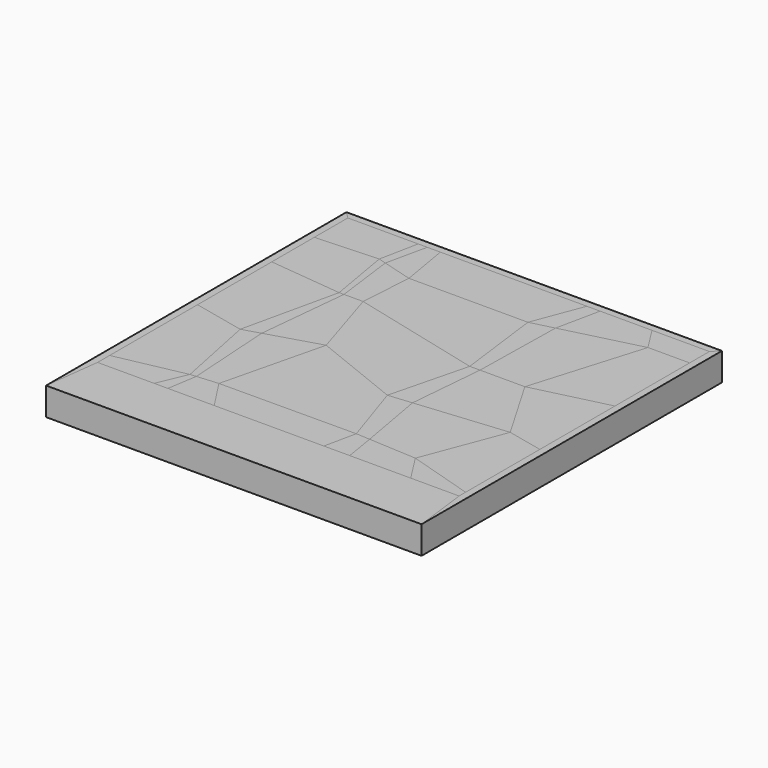
from build123d import *

# Parameters (mm, degrees)
F1_DEPTH = 25.4
F2_DEPTH = 25.4
F3_DEPTH = 25.4
F4_DEPTH = 25.4
F5_DEPTH = 25.4
F6_DEPTH = 25.4
F7_DEPTH = 25.4


with BuildPart() as f1:
    # F0 (on Top) → F1 (new body)
    with BuildSketch(Plane.XY):
        Polygon((165.1, 165.1), (171.45, 171.45), (-171.45, 171.45), (-165.1, 165.1), (-100.876205, 165.1), (-92.534028, 165.1), (-80.641158, 165.1), (53.181151, 165.1), (65.29414, 165.1), (112.686343, 165.1), align=None)
        Polygon((-171.45, -171.45), (171.45, -171.45), (165.1, -120.65), (120.915994, -120.65), (65.22274, -120.65), (41.568272, -120.65), (-58.532443, -120.65), (-100.876205, -120.65), (-113.305233, -120.65), (-165.1, -120.65), align=None)
    extrude(amount=F1_DEPTH)


with BuildPart() as f2:
    # F0 (on Top) → F2 (new body)
    with BuildSketch(Plane.XY):
        Polygon((-165.1, 165.1), (-171.45, 171.45), (-171.45, -171.45), (-165.1, -120.65), (-165.1, -106.878193), (-165.1, -6.485502), (-165.1, 78.235695), (-165.1, 126.86309), align=None)
        Polygon((171.45, -171.45), (171.45, 171.45), (165.1, 165.1), (165.1, 142.54063), (165.1, 57.30013), (165.1, -28.474853), (165.1, -113.215851), (165.1, -120.65), align=None)
    extrude(amount=F2_DEPTH)


with BuildPart() as f3:
    # F0 (on Top) → F3 (new body)
    with BuildSketch(Plane.XY):
        Polygon((-80.641158, 165.1), (-92.534028, 165.1), (-100.784529, 127.452049), (-72.859515, 119.504248), align=None)
        Polygon((-76.00109, 71.160406), (-93.482419, 71.160406), (-101.844412, -12.336583), (-54.356676, 1.968068), align=None)
        Polygon((-96.599661, -93.509428), (-100.876205, -120.65), (-58.532443, -120.65), (-77.241085, -91.928616), align=None)
        Polygon((127.009865, 142.54063), (112.686343, 165.1), (65.29414, 165.1), (56.812895, 124.807519), align=None)
        Polygon((132.151097, -21.095907), (96.281519, 40.453508), (55.329066, 40.453508), (49.274652, -29.044461), align=None)
        Polygon((65.22274, -120.65), (120.915994, -120.65), (104.240492, -94.508916), (60.507689, -92.07402), align=None)
    extrude(amount=F3_DEPTH)


with BuildPart() as f4:
    # F0 (on Top) → F4 (new body)
    with BuildSketch(Plane.XY):
        Polygon((-101.844412, -12.336583), (-96.599661, -93.509428), (-77.241085, -91.928616), (-54.356676, 1.968068), align=None)
        Polygon((60.507689, -92.07402), (104.240492, -94.508916), (132.151097, -21.095907), (49.274652, -29.044461), align=None)
        Polygon((35.819758, 119.504248), (53.181151, 165.1), (-80.641158, 165.1), (-72.859515, 119.504248), align=None)
        Polygon((-100.876205, 165.1), (-165.1, 165.1), (-165.1, 126.86309), (-107.989681, 129.502723), align=None)
        Polygon((27.918482, -31.092698), (45.935702, 40.453508), (-76.00109, 71.160406), (-54.356676, 1.968068), align=None)
        Polygon((165.1, -28.474853), (165.1, 57.30013), (96.281519, 40.453508), (132.151097, -21.095907), align=None)
        Polygon((165.1, 142.54063), (165.1, 165.1), (112.686343, 165.1), (127.009865, 142.54063), align=None)
        Polygon((120.915994, -120.65), (165.1, -120.65), (165.1, -113.215851), (104.240492, -94.508916), align=None)
        Polygon((-58.532443, -120.65), (41.568272, -120.65), (47.795746, -91.366261), (-77.241085, -91.928616), align=None)
        Polygon((-97.909911, 71.160406), (-165.1, 78.235695), (-165.1, -6.485502), (-117.677249, -17.105883), align=None)
        Polygon((-165.1, -106.878193), (-165.1, -120.65), (-113.305233, -120.65), (-102.035805, -93.953341), align=None)
        Polygon((-72.859515, 119.504248), (-100.784529, 127.452049), (-93.482419, 71.160406), (-76.00109, 71.160406), align=None)
        Polygon((96.281519, 40.453508), (127.009865, 142.54063), (56.812895, 124.807519), (55.329066, 40.453508), align=None)
    extrude(amount=F4_DEPTH)


with BuildPart() as f5:
    # F0 (on Top) → F5 (new body)
    with BuildSketch(Plane.XY):
        Polygon((-107.989681, 129.502723), (-165.1, 126.86309), (-165.1, 78.235695), (-97.909911, 71.160406), align=None)
        Polygon((45.935702, 40.453508), (35.819758, 119.504248), (-72.859515, 119.504248), (-76.00109, 71.160406), align=None)
        Polygon((165.1, 57.30013), (165.1, 142.54063), (127.009865, 142.54063), (96.281519, 40.453508), align=None)
        Polygon((104.240492, -94.508916), (165.1, -113.215851), (165.1, -28.474853), (132.151097, -21.095907), align=None)
        Polygon((-77.241085, -91.928616), (47.795746, -91.366261), (27.918482, -31.092698), (-54.356676, 1.968068), align=None)
        Polygon((-165.1, -6.485502), (-165.1, -106.878193), (-102.035805, -93.953341), (-117.677249, -17.105883), align=None)
    extrude(amount=F5_DEPTH)


with BuildPart() as f6:
    # F0 (on Top) → F6 (new body)
    with BuildSketch(Plane.XY):
        Polygon((-92.534028, 165.1), (-100.876205, 165.1), (-107.989681, 129.502723), (-100.784529, 127.452049), align=None)
        Polygon((-93.482419, 71.160406), (-97.909911, 71.160406), (-117.677249, -17.105883), (-101.844412, -12.336583), align=None)
        Polygon((-102.035805, -93.953341), (-113.305233, -120.65), (-100.876205, -120.65), (-96.599661, -93.509428), align=None)
        Polygon((56.812895, 124.807519), (65.29414, 165.1), (53.181151, 165.1), (35.819758, 119.504248), align=None)
        Polygon((49.274652, -29.044461), (55.329066, 40.453508), (45.935702, 40.453508), (27.918482, -31.092698), align=None)
        Polygon((41.568272, -120.65), (65.22274, -120.65), (60.507689, -92.07402), (47.795746, -91.366261), align=None)
    extrude(amount=F6_DEPTH)


with BuildPart() as f7:
    # F0 (on Top) → F7 (new body)
    with BuildSketch(Plane.XY):
        Polygon((-100.784529, 127.452049), (-107.989681, 129.502723), (-97.909911, 71.160406), (-93.482419, 71.160406), align=None)
        Polygon((55.329066, 40.453508), (56.812895, 124.807519), (35.819758, 119.504248), (45.935702, 40.453508), align=None)
        Polygon((47.795746, -91.366261), (60.507689, -92.07402), (49.274652, -29.044461), (27.918482, -31.092698), align=None)
        Polygon((-117.677249, -17.105883), (-102.035805, -93.953341), (-96.599661, -93.509428), (-101.844412, -12.336583), align=None)
    extrude(amount=F7_DEPTH)


solid = Compound([f1.part, f2.part, f3.part, f4.part, f5.part, f6.part, f7.part])
